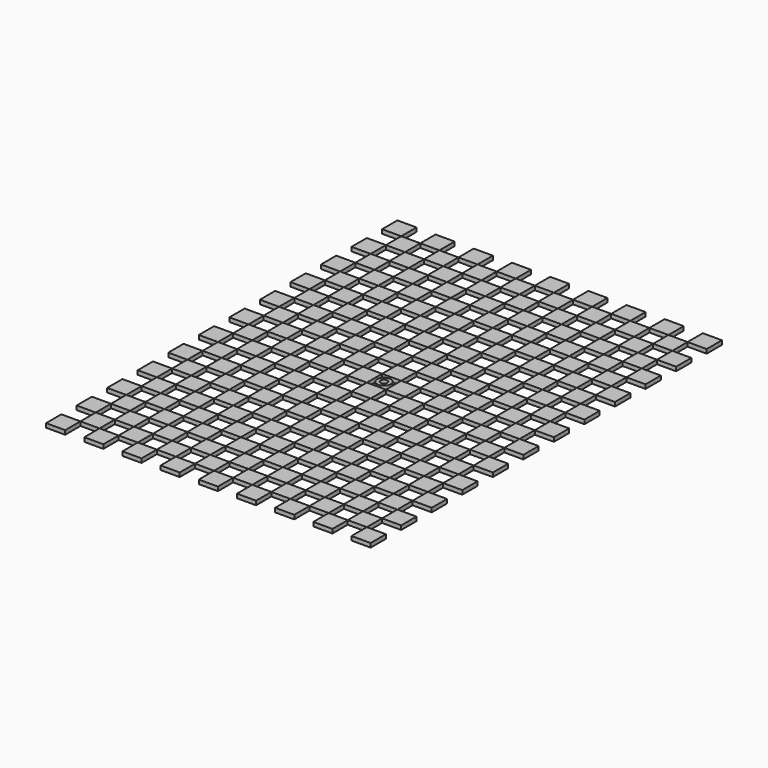
from build123d import *

# Parameters (mm, degrees)
F1_W     = 14
F1_H     = 14
F5_DEPTH = 2.99
F3_R     = 5
F3_R_2   = 2.5
F6_DEPTH = 3.01


with BuildPart() as f5:
    # F1 (on Top) → F5 (new body)
    with BuildSketch(Plane.XY):
        with Locations((-94.8, -134.6)):
            Rectangle(F1_W, F1_H)
        with Locations((101.2, -22.6)):
            Rectangle(F1_W, F1_H)
        with Locations((31.2, -8.6)):
            Rectangle(F1_W, F1_H)
        with Locations((-52.8, -64.6)):
            Rectangle(F1_W, F1_H)
        with Locations((-66.8, 145.4)):
            Rectangle(F1_W, F1_H)
        with Locations((-24.8, -120.6)):
            Rectangle(F1_W, F1_H)
        with Locations((-52.8, -36.6)):
            Rectangle(F1_W, F1_H)
        with Locations((-66.8, 33.4)):
            Rectangle(F1_W, F1_H)
        with Locations((101.2, 5.4)):
            Rectangle(F1_W, F1_H)
        with Locations((17.2, -106.6)):
            Rectangle(F1_W, F1_H)
        with Locations((-108.8, -36.6)):
            Rectangle(F1_W, F1_H)
        with Locations((-108.8, -120.6)):
            Rectangle(F1_W, F1_H)
        with Locations((3.2, -64.6)):
            Rectangle(F1_W, F1_H)
        with Locations((73.2, -106.6)):
            Rectangle(F1_W, F1_H)
        with Locations((73.2, 145.4)):
            Rectangle(F1_W, F1_H)
        with Locations((115.2, 47.4)):
            Rectangle(F1_W, F1_H)
        with Locations((17.2, -22.6)):
            Rectangle(F1_W, F1_H)
        with Locations((-80.8, -64.6)):
            Rectangle(F1_W, F1_H)
        with Locations((-66.8, 117.4)):
            Rectangle(F1_W, F1_H)
        with Locations((-66.8, -78.6)):
            Rectangle(F1_W, F1_H)
        with Locations((115.2, -92.6)):
            Rectangle(F1_W, F1_H)
        with Locations((-94.8, -50.6)):
            Rectangle(F1_W, F1_H)
        with Locations((45.2, 33.4)):
            Rectangle(F1_W, F1_H)
        with Locations((59.2, -36.6)):
            Rectangle(F1_W, F1_H)
        with Locations((73.2, -50.6)):
            Rectangle(F1_W, F1_H)
        with Locations((45.2, -78.6)):
            Rectangle(F1_W, F1_H)
        with Locations((-66.8, -134.6)):
            Rectangle(F1_W, F1_H)
        with Locations((101.2, 89.4)):
            Rectangle(F1_W, F1_H)
        with Locations((-108.8, 47.4)):
            Rectangle(F1_W, F1_H)
        with Locations((115.2, -120.6)):
            Rectangle(F1_W, F1_H)
        with Locations((-80.8, 159.4)):
            Rectangle(F1_W, F1_H)
        with Locations((17.2, 61.4)):
            Rectangle(F1_W, F1_H)
        with Locations((45.2, 145.4)):
            Rectangle(F1_W, F1_H)
        with Locations((59.2, -64.6)):
            Rectangle(F1_W, F1_H)
        with Locations((73.2, 117.4)):
            Rectangle(F1_W, F1_H)
        with Locations((87.2, -64.6)):
            Rectangle(F1_W, F1_H)
        with Locations((31.2, -148.6)):
            Rectangle(F1_W, F1_H)
        with Locations((-24.8, 103.4)):
            Rectangle(F1_W, F1_H)
        with Locations((-80.8, -120.6)):
            Rectangle(F1_W, F1_H)
        with Locations((59.2, -148.6)):
            Rectangle(F1_W, F1_H)
        with Locations((59.2, -120.6)):
            Rectangle(F1_W, F1_H)
        with Locations((-52.8, 103.4)):
            Rectangle(F1_W, F1_H)
        with Locations((31.2, 159.4)):
            Rectangle(F1_W, F1_H)
        with Locations((-52.8, -8.6)):
            Rectangle(F1_W, F1_H)
        with Locations((73.2, 33.4)):
            Rectangle(F1_W, F1_H)
        with Locations((-108.8, 19.4)):
            Rectangle(F1_W, F1_H)
        with Locations((-52.8, -92.6)):
            Rectangle(F1_W, F1_H)
        with Locations((101.2, -78.6)):
            Rectangle(F1_W, F1_H)
        with Locations((3.2, -8.6)):
            Rectangle(F1_W, F1_H)
        with Locations((87.2, -92.6)):
            Rectangle(F1_W, F1_H)
        with Locations((101.2, 61.4)):
            Rectangle(F1_W, F1_H)
        with Locations((-38.8, -78.6)):
            Rectangle(F1_W, F1_H)
        with Locations((-10.8, 33.4)):
            Rectangle(F1_W, F1_H)
        with Locations((17.2, 89.4)):
            Rectangle(F1_W, F1_H)
        with Locations((3.2, 19.4)):
            Rectangle(F1_W, F1_H)
        with Locations((59.2, 19.4)):
            Rectangle(F1_W, F1_H)
        with Locations((3.2, 131.4)):
            Rectangle(F1_W, F1_H)
        with Locations((73.2, 5.4)):
            Rectangle(F1_W, F1_H)
        with Locations((87.2, 47.4)):
            Rectangle(F1_W, F1_H)
        with Locations((17.2, 5.4)):
            Rectangle(F1_W, F1_H)
        with Locations((-66.8, 5.4)):
            Rectangle(F1_W, F1_H)
        with Locations((31.2, 47.4)):
            Rectangle(F1_W, F1_H)
        with Locations((-38.8, 33.4)):
            Rectangle(F1_W, F1_H)
        with Locations((-66.8, 89.4)):
            Rectangle(F1_W, F1_H)
        with Locations((-66.8, -50.6)):
            Rectangle(F1_W, F1_H)
        with Locations((-38.8, -22.6)):
            Rectangle(F1_W, F1_H)
        with Locations((-38.8, -106.6)):
            Rectangle(F1_W, F1_H)
        with Locations((87.2, 75.4)):
            Rectangle(F1_W, F1_H)
        with Locations((31.2, 103.4)):
            Rectangle(F1_W, F1_H)
        with Locations((-10.8, 117.4)):
            Rectangle(F1_W, F1_H)
        with Locations((-66.8, 61.4)):
            Rectangle(F1_W, F1_H)
        with Locations((87.2, -120.6)):
            Rectangle(F1_W, F1_H)
        with Locations((-24.8, 75.4)):
            Rectangle(F1_W, F1_H)
        with Locations((115.2, 19.4)):
            Rectangle(F1_W, F1_H)
        with Locations((-80.8, 75.4)):
            Rectangle(F1_W, F1_H)
        with Locations((115.2, -8.6)):
            Rectangle(F1_W, F1_H)
        with Locations((87.2, 131.4)):
            Rectangle(F1_W, F1_H)
        with Locations((-108.8, -92.6)):
            Rectangle(F1_W, F1_H)
        with Locations((-10.8, -50.6)):
            Rectangle(F1_W, F1_H)
        with Locations((-66.8, -106.6)):
            Rectangle(F1_W, F1_H)
        with Locations((59.2, 103.4)):
            Rectangle(F1_W, F1_H)
        with Locations((-24.8, 47.4)):
            Rectangle(F1_W, F1_H)
        with Locations((31.2, -64.6)):
            Rectangle(F1_W, F1_H)
        with Locations((101.2, 145.4)):
            Rectangle(F1_W, F1_H)
        with Locations((-94.8, 117.4)):
            Rectangle(F1_W, F1_H)
        with Locations((17.2, -134.6)):
            Rectangle(F1_W, F1_H)
        with Locations((-24.8, 159.4)):
            Rectangle(F1_W, F1_H)
        with Locations((115.2, 75.4)):
            Rectangle(F1_W, F1_H)
        with Locations((-108.8, 103.4)):
            Rectangle(F1_W, F1_H)
        with Locations((73.2, -134.6)):
            Rectangle(F1_W, F1_H)
        with Locations((115.2, 103.4)):
            Rectangle(F1_W, F1_H)
        with Locations((3.2, 103.4)):
            Rectangle(F1_W, F1_H)
        with Locations((-52.8, 47.4)):
            Rectangle(F1_W, F1_H)
        with Locations((-38.8, 117.4)):
            Rectangle(F1_W, F1_H)
        with Locations((45.2, -22.6)):
            Rectangle(F1_W, F1_H)
        with Locations((-10.8, -78.6)):
            Rectangle(F1_W, F1_H)
        with Locations((-94.8, 89.4)):
            Rectangle(F1_W, F1_H)
        with Locations((-10.8, 5.4)):
            Rectangle(F1_W, F1_H)
        with Locations((31.2, -120.6)):
            Rectangle(F1_W, F1_H)
        with Locations((-66.8, -22.6)):
            Rectangle(F1_W, F1_H)
        with Locations((-80.8, 47.4)):
            Rectangle(F1_W, F1_H)
        with Locations((73.2, -78.6)):
            Rectangle(F1_W, F1_H)
        with Locations((45.2, 117.4)):
            Rectangle(F1_W, F1_H)
        with Locations((59.2, -8.6)):
            Rectangle(F1_W, F1_H)
        with Locations((101.2, -134.6)):
            Rectangle(F1_W, F1_H)
        with Locations((-10.8, -106.6)):
            Rectangle(F1_W, F1_H)
        with Locations((45.2, -50.6)):
            Rectangle(F1_W, F1_H)
        with Locations((-38.8, 145.4)):
            Rectangle(F1_W, F1_H)
        with Locations((-10.8, -134.6)):
            Rectangle(F1_W, F1_H)
        with Locations((45.2, -106.6)):
            Rectangle(F1_W, F1_H)
        with Locations((101.2, -50.6)):
            Rectangle(F1_W, F1_H)
        with Locations((-94.8, 5.4)):
            Rectangle(F1_W, F1_H)
        with Locations((31.2, 19.4)):
            Rectangle(F1_W, F1_H)
        with Locations((-24.8, -8.6)):
            Rectangle(F1_W, F1_H)
        with Locations((-52.8, -120.6)):
            Rectangle(F1_W, F1_H)
        with Locations((101.2, -106.6)):
            Rectangle(F1_W, F1_H)
        with Locations((-94.8, -22.6)):
            Rectangle(F1_W, F1_H)
        with Locations((-108.8, 75.4)):
            Rectangle(F1_W, F1_H)
        with Locations((101.2, 117.4)):
            Rectangle(F1_W, F1_H)
        with Locations((3.2, -120.6)):
            Rectangle(F1_W, F1_H)
        with Locations((59.2, -92.6)):
            Rectangle(F1_W, F1_H)
        with Locations((-52.8, 131.4)):
            Rectangle(F1_W, F1_H)
        with Locations((17.2, 145.4)):
            Rectangle(F1_W, F1_H)
        with Locations((-52.8, 159.4)):
            Rectangle(F1_W, F1_H)
        with Locations((87.2, 19.4)):
            Rectangle(F1_W, F1_H)
        with Locations((3.2, 75.4)):
            Rectangle(F1_W, F1_H)
        with Locations((87.2, -8.6)):
            Rectangle(F1_W, F1_H)
        with Locations((59.2, 131.4)):
            Rectangle(F1_W, F1_H)
        with Locations((3.2, 159.4)):
            Rectangle(F1_W, F1_H)
        with Locations((-94.8, 33.4)):
            Rectangle(F1_W, F1_H)
        with Locations((87.2, -36.6)):
            Rectangle(F1_W, F1_H)
        with Locations((3.2, 47.4)):
            Rectangle(F1_W, F1_H)
        with Locations((-38.8, 89.4)):
            Rectangle(F1_W, F1_H)
        with Locations((-24.8, 131.4)):
            Rectangle(F1_W, F1_H)
        with Locations((31.2, 75.4)):
            Rectangle(F1_W, F1_H)
        with Locations((-80.8, -8.6)):
            Rectangle(F1_W, F1_H)
        with Locations((-108.8, 131.4)):
            Rectangle(F1_W, F1_H)
        with Locations((115.2, -64.6)):
            Rectangle(F1_W, F1_H)
        with Locations((-52.8, 19.4)):
            Rectangle(F1_W, F1_H)
        with Locations((73.2, 61.4)):
            Rectangle(F1_W, F1_H)
        with Locations((101.2, 33.4)):
            Rectangle(F1_W, F1_H)
        with Locations((-80.8, -92.6)):
            Rectangle(F1_W, F1_H)
        with Locations((45.2, 89.4)):
            Rectangle(F1_W, F1_H)
        with Locations((73.2, 89.4)):
            Rectangle(F1_W, F1_H)
        with Locations((-10.8, -22.6)):
            Rectangle(F1_W, F1_H)
        with Locations((-10.8, 89.4)):
            Rectangle(F1_W, F1_H)
        with Locations((-80.8, -36.6)):
            Rectangle(F1_W, F1_H)
        with Locations((-38.8, -134.6)):
            Rectangle(F1_W, F1_H)
        with Locations((87.2, 159.4)):
            Rectangle(F1_W, F1_H)
        with Locations((-10.8, 145.4)):
            Rectangle(F1_W, F1_H)
        with Locations((17.2, -50.6)):
            Rectangle(F1_W, F1_H)
        with Locations((-38.8, 5.4)):
            Rectangle(F1_W, F1_H)
        with Locations((-94.8, -78.6)):
            Rectangle(F1_W, F1_H)
        with Locations((45.2, 61.4)):
            Rectangle(F1_W, F1_H)
        with Locations((-94.8, 145.4)):
            Rectangle(F1_W, F1_H)
        with Locations((-24.8, -64.6)):
            Rectangle(F1_W, F1_H)
        with Locations((-24.8, -92.6)):
            Rectangle(F1_W, F1_H)
        with Locations((-38.8, -50.6)):
            Rectangle(F1_W, F1_H)
        with Locations((-80.8, 19.4)):
            Rectangle(F1_W, F1_H)
        with Locations((-24.8, -36.6)):
            Rectangle(F1_W, F1_H)
        with Locations((-24.8, -148.6)):
            Rectangle(F1_W, F1_H)
        with Locations((73.2, -22.6)):
            Rectangle(F1_W, F1_H)
        with Locations((3.2, -92.6)):
            Rectangle(F1_W, F1_H)
        with Locations((17.2, -78.6)):
            Rectangle(F1_W, F1_H)
        with Locations((-38.8, 61.4)):
            Rectangle(F1_W, F1_H)
        with Locations((31.2, 131.4)):
            Rectangle(F1_W, F1_H)
        with Locations((87.2, 103.4)):
            Rectangle(F1_W, F1_H)
        with Locations((-24.8, 19.4)):
            Rectangle(F1_W, F1_H)
        with Locations((3.2, -36.6)):
            Rectangle(F1_W, F1_H)
        with Locations((-52.8, 75.4)):
            Rectangle(F1_W, F1_H)
        with Locations((31.2, -92.6)):
            Rectangle(F1_W, F1_H)
        with Locations((45.2, -134.6)):
            Rectangle(F1_W, F1_H)
        with Locations((115.2, 131.4)):
            Rectangle(F1_W, F1_H)
        with Locations((-108.8, -8.6)):
            Rectangle(F1_W, F1_H)
        with Locations((17.2, 117.4)):
            Rectangle(F1_W, F1_H)
        with Locations((59.2, 75.4)):
            Rectangle(F1_W, F1_H)
        with Locations((-94.8, 61.4)):
            Rectangle(F1_W, F1_H)
        with Locations((-80.8, 131.4)):
            Rectangle(F1_W, F1_H)
        with Locations((59.2, 159.4)):
            Rectangle(F1_W, F1_H)
        with Locations((-10.8, 61.4)):
            Rectangle(F1_W, F1_H)
        with Locations((-80.8, 103.4)):
            Rectangle(F1_W, F1_H)
        with Locations((59.2, 47.4)):
            Rectangle(F1_W, F1_H)
        with Locations((17.2, 33.4)):
            Rectangle(F1_W, F1_H)
        with Locations((115.2, -36.6)):
            Rectangle(F1_W, F1_H)
        with Locations((-94.8, -106.6)):
            Rectangle(F1_W, F1_H)
        with Locations((-52.8, -148.6)):
            Rectangle(F1_W, F1_H)
        with Locations((87.2, -148.6)):
            Rectangle(F1_W, F1_H)
        with Locations((-80.8, -148.6)):
            Rectangle(F1_W, F1_H)
        with Locations((115.2, 159.4)):
            Rectangle(F1_W, F1_H)
        with Locations((-108.8, 159.4)):
            Rectangle(F1_W, F1_H)
        with Locations((115.2, -148.6)):
            Rectangle(F1_W, F1_H)
        with Locations((-108.8, -64.6)):
            Rectangle(F1_W, F1_H)
        with Locations((3.2, -148.6)):
            Rectangle(F1_W, F1_H)
        with Locations((45.2, 5.4)):
            Rectangle(F1_W, F1_H)
        with Locations((31.2, -36.6)):
            Rectangle(F1_W, F1_H)
        with Locations((-108.8, -148.6)):
            Rectangle(F1_W, F1_H)
        with Locations((-108.8, -148.6)):
            Rectangle(F1_W, F1_H)
    extrude(amount=F5_DEPTH)


with BuildPart() as f6:
    # F3 (on face) → F6 (new body)
    with BuildSketch(Plane.XY):
        with Locations((3.2, 5.4)):
            Circle(F3_R)
        with Locations((3.2, 5.4)):
            Circle(F3_R_2, mode=Mode.SUBTRACT)
    extrude(amount=F6_DEPTH)


solid = Compound([f5.part, f6.part])
